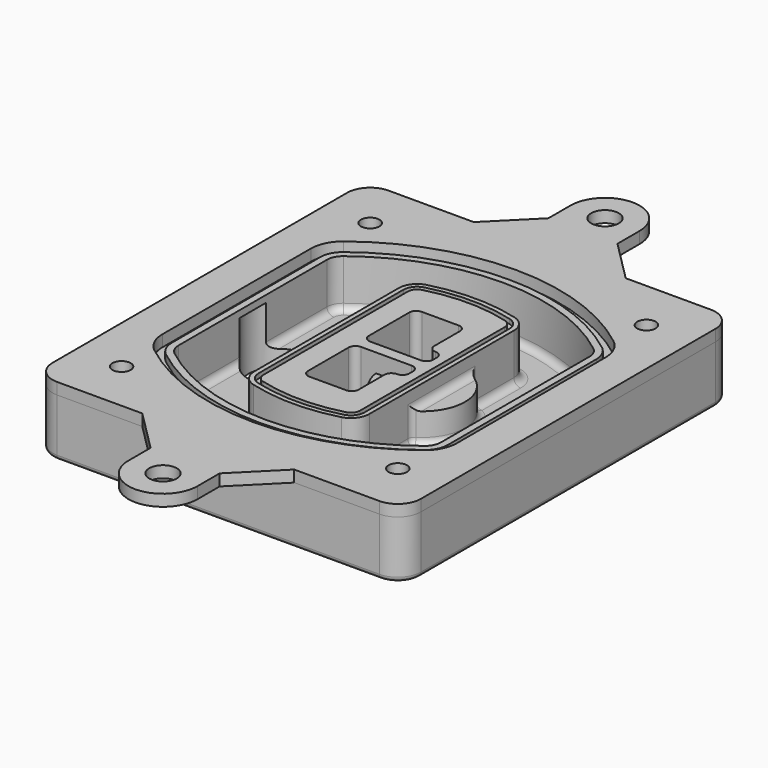
from build123d import *

# Parameters (mm, degrees)
F0_R      = 4
F1_DEPTH  = 25
F2_DEPTH  = 3
F3_DEPTH  = 18
F5_DEPTH  = 21
F6_DEPTH  = 2
F8_DEPTH  = 20
F9_DEPTH  = 16
F10_DEPTH = 25
F7_R      = 6
F7_R_2    = 4
F11_DEPTH = 6
F13_DEPTH = 9
F14_R     = 3
F15_R     = 2
F0_R_2    = 6
F16_DEPTH = 5


with BuildPart() as f1:
    # F0 (on Top) → F1 (new body)
    with BuildSketch(Plane.XY):
        with BuildLine():
            ThreePointArc((-80, -80), (-77.0710678119, -87.0710678119), (-70, -90))
            Line((-70, -90), (-33, -90))
            Line((-33, -90), (33, -90))
            Line((33, -90), (70, -90))
            ThreePointArc((70, -90), (77.0710678119, -87.0710678119), (80, -80))
            Line((80, -80), (80, 80))
            ThreePointArc((80, 80), (77.0710678119, 87.0710678119), (70, 90))
            Line((70, 90), (33, 90))
            Line((33, 90), (-33, 90))
            Line((-33, 90), (-70, 90))
            ThreePointArc((-70, 90), (-77.0710678119, 87.0710678119), (-80, 80))
            Line((-80, 80), (-80, -80))
        make_face()
        with Locations((-60, -67.5)):
            Circle(F0_R, mode=Mode.SUBTRACT)
        with Locations((60, -67.5)):
            Circle(F0_R, mode=Mode.SUBTRACT)
        with Locations((-60, 67.5)):
            Circle(F0_R, mode=Mode.SUBTRACT)
        with BuildLine():
            ThreePointArc((-64, 40.2934422872), (-62.5820384798, 46.4328484224), (-58.6153846154, 51.3286200352))
            ThreePointArc((-58.6153846154, 51.3286200352), (0, 71.5), (58.6153846154, 51.3286200352))
            ThreePointArc((58.6153846154, 51.3286200352), (62.5820384798, 46.4328484224), (64, 40.2934422872))
            Line((64, 40.2934422872), (64, -40.2934422872))
            ThreePointArc((64, -40.2934422872), (62.5820384798, -46.4328484224), (58.6153846154, -51.3286200352))
            ThreePointArc((58.6153846154, -51.3286200352), (0, -71.5), (-58.6153846154, -51.3286200352))
            ThreePointArc((-58.6153846154, -51.3286200352), (-62.5820384798, -46.4328484224), (-64, -40.2934422872))
            Line((-64, -40.2934422872), (-64, 40.2934422872))
        make_face(mode=Mode.SUBTRACT)
        with Locations((60, 67.5)):
            Circle(F0_R, mode=Mode.SUBTRACT)
        with BuildLine():
            ThreePointArc((58.6153846154, 51.3286200352), (0, 71.5), (-58.6153846154, 51.3286200352))
            ThreePointArc((-58.6153846154, 51.3286200352), (-62.5820384798, 46.4328484224), (-64, 40.2934422872))
            Line((-64, 40.2934422872), (-64, -40.2934422872))
            ThreePointArc((-64, -40.2934422872), (-62.5820384798, -46.4328484224), (-58.6153846154, -51.3286200352))
            ThreePointArc((-58.6153846154, -51.3286200352), (0, -71.5), (58.6153846154, -51.3286200352))
            ThreePointArc((58.6153846154, -51.3286200352), (62.5820384798, -46.4328484224), (64, -40.2934422872))
            Line((64, -40.2934422872), (64, 40.2934422872))
            ThreePointArc((64, 40.2934422872), (62.5820384798, 46.4328484224), (58.6153846154, 51.3286200352))
        make_face()
        with BuildLine():
            Line((-60, -40.2934422872), (-60, 40.2934422872))
            ThreePointArc((-60, 40.2934422872), (-58.9871703427, 44.6787323838), (-56.1538461538, 48.1757121072))
            ThreePointArc((-56.1538461538, 48.1757121072), (0, 67.5), (56.1538461538, 48.1757121072))
            ThreePointArc((56.1538461538, 48.1757121072), (58.9871703427, 44.6787323838), (60, 40.2934422872))
            Line((60, 40.2934422872), (60, -40.2934422872))
            ThreePointArc((60, -40.2934422872), (58.9871703427, -44.6787323838), (56.1538461538, -48.1757121072))
            ThreePointArc((56.1538461538, -48.1757121072), (0, -67.5), (-56.1538461538, -48.1757121072))
            ThreePointArc((-56.1538461538, -48.1757121072), (-58.9871703427, -44.6787323838), (-60, -40.2934422872))
        make_face(mode=Mode.SUBTRACT)
        with BuildLine():
            ThreePointArc((-56.1538461538, 48.1757121072), (-58.9871703427, 44.6787323838), (-60, 40.2934422872))
            Line((-60, 40.2934422872), (-60, -40.2934422872))
            ThreePointArc((-60, -40.2934422872), (-58.9871703427, -44.6787323838), (-56.1538461538, -48.1757121072))
            ThreePointArc((-56.1538461538, -48.1757121072), (0, -67.5), (56.1538461538, -48.1757121072))
            ThreePointArc((56.1538461538, -48.1757121072), (58.9871703427, -44.6787323838), (60, -40.2934422872))
            Line((60, -40.2934422872), (60, 40.2934422872))
            ThreePointArc((60, 40.2934422872), (58.9871703427, 44.6787323838), (56.1538461538, 48.1757121072))
            ThreePointArc((56.1538461538, 48.1757121072), (0, 67.5), (-56.1538461538, 48.1757121072))
        make_face()
        with BuildLine():
            ThreePointArc((54.3076923077, 45.8110311612), (56.2910192399, 43.3631453548), (57, 40.2934422872))
            Line((57, 40.2934422872), (57, -40.2934422872))
            ThreePointArc((57, -40.2934422872), (56.2910192399, -43.3631453548), (54.3076923077, -45.8110311612))
            ThreePointArc((54.3076923077, -45.8110311612), (0, -64.5), (-54.3076923077, -45.8110311612))
            ThreePointArc((-54.3076923077, -45.8110311612), (-56.2910192399, -43.3631453548), (-57, -40.2934422872))
            Line((-57, -40.2934422872), (-57, 40.2934422872))
            ThreePointArc((-57, 40.2934422872), (-56.2910192399, 43.3631453548), (-54.3076923077, 45.8110311612))
            ThreePointArc((-54.3076923077, 45.8110311612), (0, 64.5), (54.3076923077, 45.8110311612))
        make_face(mode=Mode.SUBTRACT)
        with BuildLine():
            Line((57, -40.2934422872), (57, 40.2934422872))
            ThreePointArc((57, 40.2934422872), (56.2910192399, 43.3631453548), (54.3076923077, 45.8110311612))
            ThreePointArc((54.3076923077, 45.8110311612), (0, 64.5), (-54.3076923077, 45.8110311612))
            ThreePointArc((-54.3076923077, 45.8110311612), (-56.2910192399, 43.3631453548), (-57, 40.2934422872))
            Line((-57, 40.2934422872), (-57, -40.2934422872))
            ThreePointArc((-57, -40.2934422872), (-56.2910192399, -43.3631453548), (-54.3076923077, -45.8110311612))
            ThreePointArc((-54.3076923077, -45.8110311612), (0, -64.5), (54.3076923077, -45.8110311612))
            ThreePointArc((54.3076923077, -45.8110311612), (56.2910192399, -43.3631453548), (57, -40.2934422872))
        make_face()
    extrude(amount=-F1_DEPTH)

    # F0 (on Top) → F2 (join)
    with BuildSketch(Plane.XY):
        with BuildLine():
            ThreePointArc((-56.1538461538, 48.1757121072), (-58.9871703427, 44.6787323838), (-60, 40.2934422872))
            Line((-60, 40.2934422872), (-60, -40.2934422872))
            ThreePointArc((-60, -40.2934422872), (-58.9871703427, -44.6787323838), (-56.1538461538, -48.1757121072))
            ThreePointArc((-56.1538461538, -48.1757121072), (0, -67.5), (56.1538461538, -48.1757121072))
            ThreePointArc((56.1538461538, -48.1757121072), (58.9871703427, -44.6787323838), (60, -40.2934422872))
            Line((60, -40.2934422872), (60, 40.2934422872))
            ThreePointArc((60, 40.2934422872), (58.9871703427, 44.6787323838), (56.1538461538, 48.1757121072))
            ThreePointArc((56.1538461538, 48.1757121072), (0, 67.5), (-56.1538461538, 48.1757121072))
        make_face()
        with BuildLine():
            ThreePointArc((54.3076923077, 45.8110311612), (56.2910192399, 43.3631453548), (57, 40.2934422872))
            Line((57, 40.2934422872), (57, -40.2934422872))
            ThreePointArc((57, -40.2934422872), (56.2910192399, -43.3631453548), (54.3076923077, -45.8110311612))
            ThreePointArc((54.3076923077, -45.8110311612), (0, -64.5), (-54.3076923077, -45.8110311612))
            ThreePointArc((-54.3076923077, -45.8110311612), (-56.2910192399, -43.3631453548), (-57, -40.2934422872))
            Line((-57, -40.2934422872), (-57, 40.2934422872))
            ThreePointArc((-57, 40.2934422872), (-56.2910192399, 43.3631453548), (-54.3076923077, 45.8110311612))
            ThreePointArc((-54.3076923077, 45.8110311612), (0, 64.5), (54.3076923077, 45.8110311612))
        make_face(mode=Mode.SUBTRACT)
    extrude(amount=F2_DEPTH)

    # F0 (on Top) → F3 (cut)
    with BuildSketch(Plane.XY):
        with BuildLine():
            Line((57, -40.2934422872), (57, 40.2934422872))
            ThreePointArc((57, 40.2934422872), (56.2910192399, 43.3631453548), (54.3076923077, 45.8110311612))
            ThreePointArc((54.3076923077, 45.8110311612), (0, 64.5), (-54.3076923077, 45.8110311612))
            ThreePointArc((-54.3076923077, 45.8110311612), (-56.2910192399, 43.3631453548), (-57, 40.2934422872))
            Line((-57, 40.2934422872), (-57, -40.2934422872))
            ThreePointArc((-57, -40.2934422872), (-56.2910192399, -43.3631453548), (-54.3076923077, -45.8110311612))
            ThreePointArc((-54.3076923077, -45.8110311612), (0, -64.5), (54.3076923077, -45.8110311612))
            ThreePointArc((54.3076923077, -45.8110311612), (56.2910192399, -43.3631453548), (57, -40.2934422872))
        make_face()
    extrude(amount=-F3_DEPTH, mode=Mode.SUBTRACT)

    # F4 (on face) → F5 (join, through all)
    with BuildSketch(Plane.XY.offset(3)):
        with BuildLine():
            ThreePointArc((-25, -39.2465276821), (-23.3511545998, -44.1109737193), (-19.0842911877, -46.9702398883))
            ThreePointArc((-19.0842911877, -46.9702398883), (0, -49.5), (19.0842911877, -46.9702398883))
            ThreePointArc((19.0842911877, -46.9702398883), (23.3511545998, -44.1109737193), (25, -39.2465276821))
            Line((25, -39.2465276821), (25, 39.2465276821))
            ThreePointArc((25, 39.2465276821), (23.3511545998, 44.1109737193), (19.0842911877, 46.9702398883))
            ThreePointArc((19.0842911877, 46.9702398883), (0, 49.5), (-19.0842911877, 46.9702398883))
            ThreePointArc((-19.0842911877, 46.9702398883), (-23.3511545998, 44.1109737193), (-25, 39.2465276821))
            Line((-25, 39.2465276821), (-25, -39.2465276821))
        make_face()
        with BuildLine():
            ThreePointArc((18.5632183908, 45.0393118368), (21.7633659499, 42.89486221), (23, 39.2465276821))
            Line((23, 39.2465276821), (23, -39.2465276821))
            ThreePointArc((23, -39.2465276821), (21.7633659499, -42.89486221), (18.5632183908, -45.0393118368))
            ThreePointArc((18.5632183908, -45.0393118368), (0, -47.5), (-18.5632183908, -45.0393118368))
            ThreePointArc((-18.5632183908, -45.0393118368), (-21.7633659499, -42.89486221), (-23, -39.2465276821))
            Line((-23, -39.2465276821), (-23, 39.2465276821))
            ThreePointArc((-23, 39.2465276821), (-21.7633659499, 42.89486221), (-18.5632183908, 45.0393118368))
            ThreePointArc((-18.5632183908, 45.0393118368), (0, 47.5), (18.5632183908, 45.0393118368))
        make_face(mode=Mode.SUBTRACT)
        with BuildLine():
            Line((23, -39.2465276821), (23, 39.2465276821))
            ThreePointArc((23, 39.2465276821), (21.7633659499, 42.89486221), (18.5632183908, 45.0393118368))
            ThreePointArc((18.5632183908, 45.0393118368), (0, 47.5), (-18.5632183908, 45.0393118368))
            ThreePointArc((-18.5632183908, 45.0393118368), (-21.7633659499, 42.89486221), (-23, 39.2465276821))
            Line((-23, 39.2465276821), (-23, -39.2465276821))
            ThreePointArc((-23, -39.2465276821), (-21.7633659499, -42.89486221), (-18.5632183908, -45.0393118368))
            ThreePointArc((-18.5632183908, -45.0393118368), (0, -47.5), (18.5632183908, -45.0393118368))
            ThreePointArc((18.5632183908, -45.0393118368), (21.7633659499, -42.89486221), (23, -39.2465276821))
        make_face()
        with BuildLine():
            ThreePointArc((18.0421455939, 43.1083837852), (20.1755772999, 41.6787507007), (21, 39.2465276821))
            Line((21, 39.2465276821), (21, -39.2465276821))
            ThreePointArc((21, -39.2465276821), (20.1755772999, -41.6787507007), (18.0421455939, -43.1083837852))
            ThreePointArc((18.0421455939, -43.1083837852), (0, -45.5), (-18.0421455939, -43.1083837852))
            ThreePointArc((-18.0421455939, -43.1083837852), (-20.1755772999, -41.6787507007), (-21, -39.2465276821))
            Line((-21, -39.2465276821), (-21, 39.2465276821))
            ThreePointArc((-21, 39.2465276821), (-20.1755772999, 41.6787507007), (-18.0421455939, 43.1083837852))
            ThreePointArc((-18.0421455939, 43.1083837852), (0, 45.5), (18.0421455939, 43.1083837852))
        make_face(mode=Mode.SUBTRACT)
        with BuildLine():
            Line((21, -39.2465276821), (21, 39.2465276821))
            ThreePointArc((21, 39.2465276821), (20.1755772999, 41.6787507007), (18.0421455939, 43.1083837852))
            ThreePointArc((18.0421455939, 43.1083837852), (0, 45.5), (-18.0421455939, 43.1083837852))
            ThreePointArc((-18.0421455939, 43.1083837852), (-20.1755772999, 41.6787507007), (-21, 39.2465276821))
            Line((-21, 39.2465276821), (-21, -39.2465276821))
            ThreePointArc((-21, -39.2465276821), (-20.1755772999, -41.6787507007), (-18.0421455939, -43.1083837852))
            ThreePointArc((-18.0421455939, -43.1083837852), (0, -45.5), (18.0421455939, -43.1083837852))
            ThreePointArc((18.0421455939, -43.1083837852), (20.1755772999, -41.6787507007), (21, -39.2465276821))
        make_face()
        with BuildLine():
            Line((-8, -2.5), (14, -2.5))
            ThreePointArc((14, -2.5), (16.1213203436, -3.3786796564), (17, -5.5))
            Line((17, -5.5), (17, -7.5))
            ThreePointArc((17, -7.5), (16.1213203436, -9.6213203436), (14, -10.5))
            ThreePointArc((14, -10.5), (11.8786796564, -11.3786796564), (11, -13.5))
            Line((11, -13.5), (11, -27.5))
            ThreePointArc((11, -27.5), (10.1213203436, -29.6213203436), (8, -30.5))
            Line((8, -30.5), (-8, -30.5))
            ThreePointArc((-8, -30.5), (-10.1213203436, -29.6213203436), (-11, -27.5))
            Line((-11, -27.5), (-11, -5.5))
            ThreePointArc((-11, -5.5), (-10.1213203436, -3.3786796564), (-8, -2.5))
        make_face(mode=Mode.SUBTRACT)
        with BuildLine():
            ThreePointArc((-8, 2.5), (-10.1213203436, 3.3786796564), (-11, 5.5))
            Line((-11, 5.5), (-11, 27.5))
            ThreePointArc((-11, 27.5), (-10.1213203436, 29.6213203436), (-8, 30.5))
            Line((-8, 30.5), (8, 30.5))
            ThreePointArc((8, 30.5), (10.1213203436, 29.6213203436), (11, 27.5))
            Line((11, 27.5), (11, 13.5))
            ThreePointArc((11, 13.5), (11.8786796564, 11.3786796564), (14, 10.5))
            ThreePointArc((14, 10.5), (16.1213203436, 9.6213203436), (17, 7.5))
            Line((17, 7.5), (17, 5.5))
            ThreePointArc((17, 5.5), (16.1213203436, 3.3786796564), (14, 2.5))
            Line((14, 2.5), (-8, 2.5))
        make_face(mode=Mode.SUBTRACT)
    extrude(amount=-F5_DEPTH)

    # F4 (on face) → F6 (cut)
    with BuildSketch(Plane.XY.offset(3)):
        with BuildLine():
            Line((23, -39.2465276821), (23, 39.2465276821))
            ThreePointArc((23, 39.2465276821), (21.7633659499, 42.89486221), (18.5632183908, 45.0393118368))
            ThreePointArc((18.5632183908, 45.0393118368), (0, 47.5), (-18.5632183908, 45.0393118368))
            ThreePointArc((-18.5632183908, 45.0393118368), (-21.7633659499, 42.89486221), (-23, 39.2465276821))
            Line((-23, 39.2465276821), (-23, -39.2465276821))
            ThreePointArc((-23, -39.2465276821), (-21.7633659499, -42.89486221), (-18.5632183908, -45.0393118368))
            ThreePointArc((-18.5632183908, -45.0393118368), (0, -47.5), (18.5632183908, -45.0393118368))
            ThreePointArc((18.5632183908, -45.0393118368), (21.7633659499, -42.89486221), (23, -39.2465276821))
        make_face()
        with BuildLine():
            ThreePointArc((18.0421455939, 43.1083837852), (20.1755772999, 41.6787507007), (21, 39.2465276821))
            Line((21, 39.2465276821), (21, -39.2465276821))
            ThreePointArc((21, -39.2465276821), (20.1755772999, -41.6787507007), (18.0421455939, -43.1083837852))
            ThreePointArc((18.0421455939, -43.1083837852), (0, -45.5), (-18.0421455939, -43.1083837852))
            ThreePointArc((-18.0421455939, -43.1083837852), (-20.1755772999, -41.6787507007), (-21, -39.2465276821))
            Line((-21, -39.2465276821), (-21, 39.2465276821))
            ThreePointArc((-21, 39.2465276821), (-20.1755772999, 41.6787507007), (-18.0421455939, 43.1083837852))
            ThreePointArc((-18.0421455939, 43.1083837852), (0, 45.5), (18.0421455939, 43.1083837852))
        make_face(mode=Mode.SUBTRACT)
    extrude(amount=-F6_DEPTH, mode=Mode.SUBTRACT)

    # F7 (on face) → F8 (join)
    with BuildSketch(Plane(origin=(0, 0, -25), x_dir=(1, 0, 0), z_dir=(0, 0, -1))):
        with BuildLine():
            ThreePointArc((3.28842436, 0), (16.7567035675, 13.4682792075), (30.224982775, 0))
            Line((30.224982775, 0), (35.224982775, 0))
            ThreePointArc((35.224982775, 0), (16.7567035675, 18.4682792075), (-1.71157564, 0))
            Line((-1.71157564, 0), (3.28842436, 0))
        make_face()
        with BuildLine():
            Line((3.28842436, 0), (30.224982775, 0))
            ThreePointArc((30.224982775, 0), (16.7567035675, 13.4682792075), (3.28842436, 0))
        make_face()
        with BuildLine():
            ThreePointArc((3.28842436, 0), (16.7567035675, -13.4682792075), (30.224982775, 0))
            Line((30.224982775, 0), (3.28842436, 0))
        make_face()
        with BuildLine():
            Line((35.224982775, 0), (30.224982775, 0))
            ThreePointArc((30.224982775, 0), (16.7567035675, -13.4682792075), (3.28842436, 0))
            Line((3.28842436, 0), (-1.71157564, 0))
            ThreePointArc((-1.71157564, 0), (16.7567035675, -18.4682792075), (35.224982775, 0))
        make_face()
    extrude(amount=-F8_DEPTH)

    # F7 (on face) → F9 (cut)
    with BuildSketch(Plane(origin=(0, 0, -25), x_dir=(1, 0, 0), z_dir=(0, 0, -1))):
        with BuildLine():
            Line((3.28842436, 0), (30.224982775, 0))
            ThreePointArc((30.224982775, 0), (16.7567035675, 13.4682792075), (3.28842436, 0))
        make_face()
        with BuildLine():
            ThreePointArc((3.28842436, 0), (16.7567035675, -13.4682792075), (30.224982775, 0))
            Line((30.224982775, 0), (3.28842436, 0))
        make_face()
    extrude(amount=-F9_DEPTH, mode=Mode.SUBTRACT)

    # F7 (on face) → F10 (cut)
    with BuildSketch(Plane(origin=(0, 0, -25), x_dir=(1, 0, 0), z_dir=(0, 0, -1))):
        with BuildLine():
            Line((-59.0318229325, 0), (-32.0952645175, 0))
            ThreePointArc((-32.0952645175, 0), (-45.563543725, 13.4682792075), (-59.0318229325, 0))
        make_face()
        with BuildLine():
            ThreePointArc((-59.0318229325, 0), (-45.563543725, -13.4682792075), (-32.0952645175, 0))
            Line((-32.0952645175, 0), (-59.0318229325, 0))
        make_face()
    extrude(amount=-F10_DEPTH, mode=Mode.SUBTRACT)

    # F7 (on face) → F11 (cut)
    with BuildSketch(Plane(origin=(0, 0, -25), x_dir=(1, 0, 0), z_dir=(0, 0, -1))):
        with Locations((60, -67.5)):
            Circle(F7_R)
        with Locations((60, -67.5)):
            Circle(F7_R_2, mode=Mode.SUBTRACT)
        with Locations((60, -67.5)):
            Circle(F7_R)
        with Locations((60, -67.5)):
            Circle(F7_R_2, mode=Mode.SUBTRACT)
        with Locations((-60, -67.5)):
            Circle(F7_R)
        with Locations((-60, -67.5)):
            Circle(F7_R_2, mode=Mode.SUBTRACT)
        with Locations((-60, -67.5)):
            Circle(F7_R)
        with Locations((-60, -67.5)):
            Circle(F7_R_2, mode=Mode.SUBTRACT)
        with Locations((-60, 67.5)):
            Circle(F7_R)
        with Locations((-60, 67.5)):
            Circle(F7_R_2, mode=Mode.SUBTRACT)
        with Locations((-60, 67.5)):
            Circle(F7_R)
        with Locations((-60, 67.5)):
            Circle(F7_R_2, mode=Mode.SUBTRACT)
        with Locations((60, 67.5)):
            Circle(F7_R)
        with Locations((60, 67.5)):
            Circle(F7_R_2, mode=Mode.SUBTRACT)
        with Locations((60, 67.5)):
            Circle(F7_R)
        with Locations((60, 67.5)):
            Circle(F7_R_2, mode=Mode.SUBTRACT)
    extrude(amount=-F11_DEPTH, mode=Mode.SUBTRACT)

    # F12 (on face) → F13 (cut, through all)
    with BuildSketch(Plane(origin=(0, 0, -9), x_dir=(1, 0, 0), z_dir=(0, 0, -1))):
        with BuildLine():
            Line((11, 13.5), (11, 17.5481537753))
            ThreePointArc((11, 17.5481537753), (2.5696536419, 11.8239143813), (-1.5415842455, 2.5))
            Line((-1.5415842455, 2.5), (3.5224848595, 2.5))
            ThreePointArc((3.5224848595, 2.5), (6.1857188154, 8.3455872281), (11.2536447004, 12.2927168648))
            ThreePointArc((11.2536447004, 12.2927168648), (11.0640958889, 12.8831798879), (11, 13.5))
        make_face()
        with BuildLine():
            ThreePointArc((11.2536447004, -12.2927168648), (6.1857188154, -8.3455872281), (3.5224848595, -2.5))
            Line((3.5224848595, -2.5), (-1.5415842455, -2.5))
            ThreePointArc((-1.5415842455, -2.5), (2.5696536419, -11.8239143813), (11, -17.5481537753))
            Line((11, -17.5481537753), (11, -13.5))
            ThreePointArc((11, -13.5), (11.0640958889, -12.8831798879), (11.2536447004, -12.2927168648))
        make_face()
        with BuildLine():
            ThreePointArc((11.2536447004, 12.2927168648), (6.1857188154, 8.3455872281), (3.5224848595, 2.5))
            Line((3.5224848595, 2.5), (14, 2.5))
            ThreePointArc((14, 2.5), (16.1213203436, 3.3786796564), (17, 5.5))
            Line((17, 5.5), (17, 7.5))
            ThreePointArc((17, 7.5), (16.1213203436, 9.6213203436), (14, 10.5))
            ThreePointArc((14, 10.5), (12.3601599782, 10.9878446101), (11.2536447004, 12.2927168648))
        make_face()
        with BuildLine():
            Line((14, -2.5), (3.5224848595, -2.5))
            ThreePointArc((3.5224848595, -2.5), (6.1857188154, -8.3455872281), (11.2536447004, -12.2927168648))
            ThreePointArc((11.2536447004, -12.2927168648), (12.3601599782, -10.9878446101), (14, -10.5))
            ThreePointArc((14, -10.5), (16.1213203436, -9.6213203436), (17, -7.5))
            Line((17, -7.5), (17, -5.5))
            ThreePointArc((17, -5.5), (16.1213203436, -3.3786796564), (14, -2.5))
        make_face()
    extrude(amount=F13_DEPTH, mode=Mode.SUBTRACT)

    # F14
    f14_edges = [f1.edges().sort_by_distance(p)[0] for p in [
        (-57, -23.703476, -18),
        (-57, 23.703476, -18),
        (25, 0, -5),
        (25, 16.526506, -11.5),
        (25, -16.526506, -11.5),
        (25, -27.886517, -18),
        (35.224983, 0, -18),
    ]]
    fillet(f14_edges, radius=F14_R)

    # F15
    f15_edges = [f1.edges().sort_by_distance(p)[0] for p in [
        (0, -90, -25),
    ]]
    fillet(f15_edges, radius=F15_R)


with BuildPart() as f16:
    # F0 (on Top) → F16 (new body)
    with BuildSketch(Plane.XY):
        with BuildLine():
            ThreePointArc((-80, -80), (-77.0710678119, -87.0710678119), (-70, -90))
            Line((-70, -90), (-33, -90))
            Line((-33, -90), (33, -90))
            Line((33, -90), (70, -90))
            ThreePointArc((70, -90), (77.0710678119, -87.0710678119), (80, -80))
            Line((80, -80), (80, 80))
            ThreePointArc((80, 80), (77.0710678119, 87.0710678119), (70, 90))
            Line((70, 90), (33, 90))
            Line((33, 90), (-33, 90))
            Line((-33, 90), (-70, 90))
            ThreePointArc((-70, 90), (-77.0710678119, 87.0710678119), (-80, 80))
            Line((-80, 80), (-80, -80))
        make_face()
        with Locations((-60, -67.5)):
            Circle(F0_R, mode=Mode.SUBTRACT)
        with Locations((60, -67.5)):
            Circle(F0_R, mode=Mode.SUBTRACT)
        with Locations((-60, 67.5)):
            Circle(F0_R, mode=Mode.SUBTRACT)
        with BuildLine():
            ThreePointArc((-64, 40.2934422872), (-62.5820384798, 46.4328484224), (-58.6153846154, 51.3286200352))
            ThreePointArc((-58.6153846154, 51.3286200352), (0, 71.5), (58.6153846154, 51.3286200352))
            ThreePointArc((58.6153846154, 51.3286200352), (62.5820384798, 46.4328484224), (64, 40.2934422872))
            Line((64, 40.2934422872), (64, -40.2934422872))
            ThreePointArc((64, -40.2934422872), (62.5820384798, -46.4328484224), (58.6153846154, -51.3286200352))
            ThreePointArc((58.6153846154, -51.3286200352), (0, -71.5), (-58.6153846154, -51.3286200352))
            ThreePointArc((-58.6153846154, -51.3286200352), (-62.5820384798, -46.4328484224), (-64, -40.2934422872))
            Line((-64, -40.2934422872), (-64, 40.2934422872))
        make_face(mode=Mode.SUBTRACT)
        with Locations((60, 67.5)):
            Circle(F0_R, mode=Mode.SUBTRACT)
        with BuildLine():
            Line((33, -90), (-33, -90))
            Line((-33, -90), (-15, -108))
            Line((-15, -108), (-15, -120))
            ThreePointArc((-15, -120), (0, -135), (15, -120))
            Line((15, -120), (15, -108))
            Line((15, -108), (33, -90))
        make_face()
        with Locations((0, -120)):
            Circle(F0_R_2, mode=Mode.SUBTRACT)
        with BuildLine():
            Line((-15, 108), (-33, 90))
            Line((-33, 90), (33, 90))
            Line((33, 90), (15, 108))
            Line((15, 108), (15, 120))
            ThreePointArc((15, 120), (0, 135), (-15, 120))
            Line((-15, 120), (-15, 108))
        make_face()
        with Locations((0, 120)):
            Circle(F0_R_2, mode=Mode.SUBTRACT)
    extrude(amount=F16_DEPTH)


solid = Compound([f1.part, f16.part])
